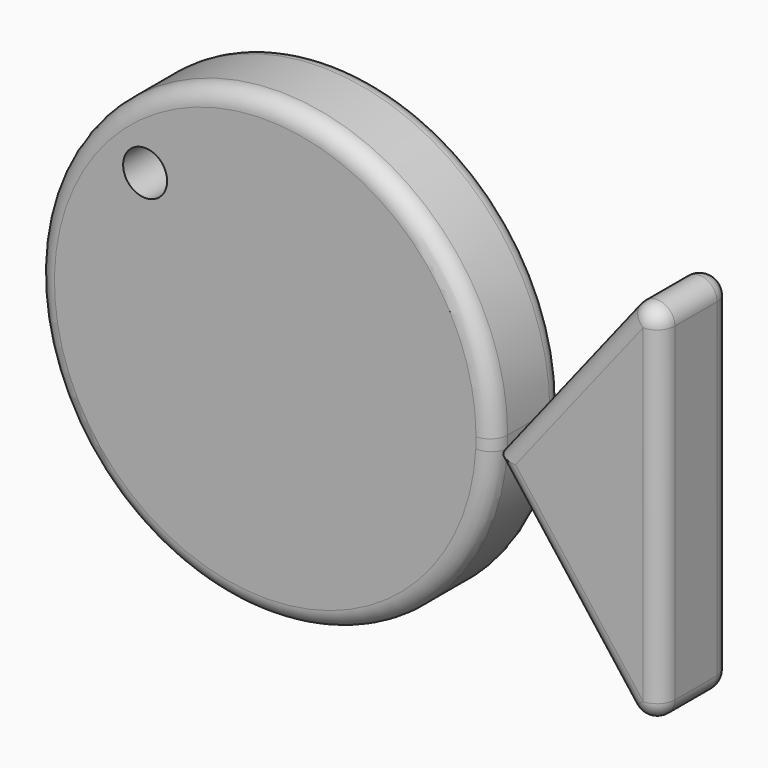
from build123d import *

# Parameters (mm, degrees)
F1_DEPTH = 25.4
F2_R     = 5.08
F2_2_R   = 5.08
F3_R     = 6.3660759479
F4_DEPTH = 25.4


with BuildPart() as f1:
    # F0 (on Front) → F1 (new body)
    with BuildSketch(Plane.XZ):
        with BuildLine():
            ThreePointArc((65.9534972126, -3.3790243298), (66.0183707612, -1.6900656906), (66.04, 0))
            ThreePointArc((66.04, 0), (-66.0183707612, 1.6900656906), (65.9534972126, -3.3790243298))
        make_face()
    extrude(amount=F1_DEPTH)

    # F2
    f2_edges = [f1.edges().sort_by_distance(p)[0] for p in [
        (-65.953497, -25.4, 3.379024),
        (-65.953497, 0, 3.379024),
    ]]
    fillet(f2_edges, radius=F2_R)

    # F3 (on Front) → F4 (cut)
    with BuildSketch(Plane.XZ):
        with Locations((-34.7292758524, 36.0262021422)):
            Circle(F3_R)
    extrude(amount=F4_DEPTH, mode=Mode.SUBTRACT)


with BuildPart() as f1b:
    # F0 (on Front) → F1, piece 2 (new body)
    with BuildSketch(Plane.XZ):
        Polygon((114.3860071898, 58.1232085824), (65.9534972126, -3.3790243298), (114.3860071898, -66.694535315), align=None)
    extrude(amount=F1_DEPTH)

    # F2#2
    f2_2_edges = [f1b.edges().sort_by_distance(p)[0] for p in [
        (90.169752, -25.4, 27.372092),
        (114.386007, -12.7, 58.123209),
        (114.386007, 0, -4.285663),
        (114.386007, -12.7, -66.694535),
        (90.169752, -25.4, -35.03678),
        (114.386007, -25.4, -4.285663),
        (90.169752, 0, -35.03678),
        (90.169752, 0, 27.372092),
    ]]
    fillet(f2_2_edges, radius=F2_2_R)


solid = Compound([f1.part, f1b.part])
